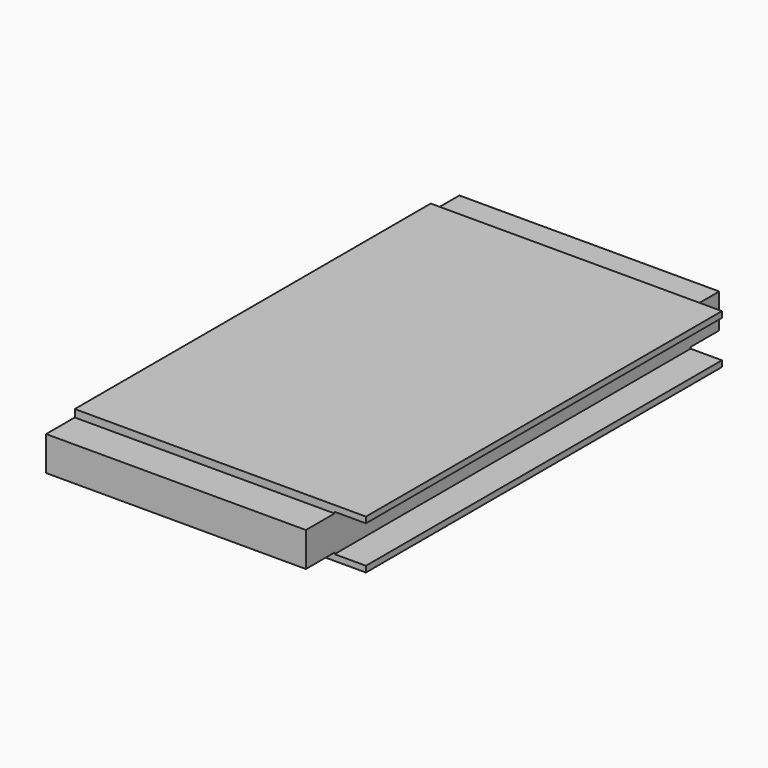
from build123d import *

# Parameters (mm, degrees)
F0_W     = 34.8
F0_H     = 4.6
F1_DEPTH = 34.6
F0_W_2   = 4.2
F0_H_2   = 0.8
F2_DEPTH = 29.8


with BuildPart() as f1:
    # F0 (on Front) → F1 (new body, symmetric)
    with BuildSketch(Plane.XZ):
        with Locations((-3.756187, 0.384168)):
            Rectangle(F0_W, F0_H)
    extrude(amount=F1_DEPTH, both=True)

    # F0 (on Front) → F2 (join, symmetric)
    with BuildSketch(Plane.XZ):
        Polygon((13.643813, 3.684168), (-21.156187, 3.684168), (-21.156187, 2.684168), (13.643813, 2.684168), (13.643813, 2.884168), align=None)
        Polygon((13.643813, -1.915832), (-21.156187, -1.915832), (-21.156187, -2.915832), (13.643813, -2.915832), (13.643813, -2.115832), align=None)
        with Locations((15.743813, -2.515832)):
            Rectangle(F0_W_2, F0_H_2)
        with Locations((15.743813, 3.284168)):
            Rectangle(F0_W_2, F0_H_2)
    extrude(amount=F2_DEPTH, both=True)


solid = f1.part
